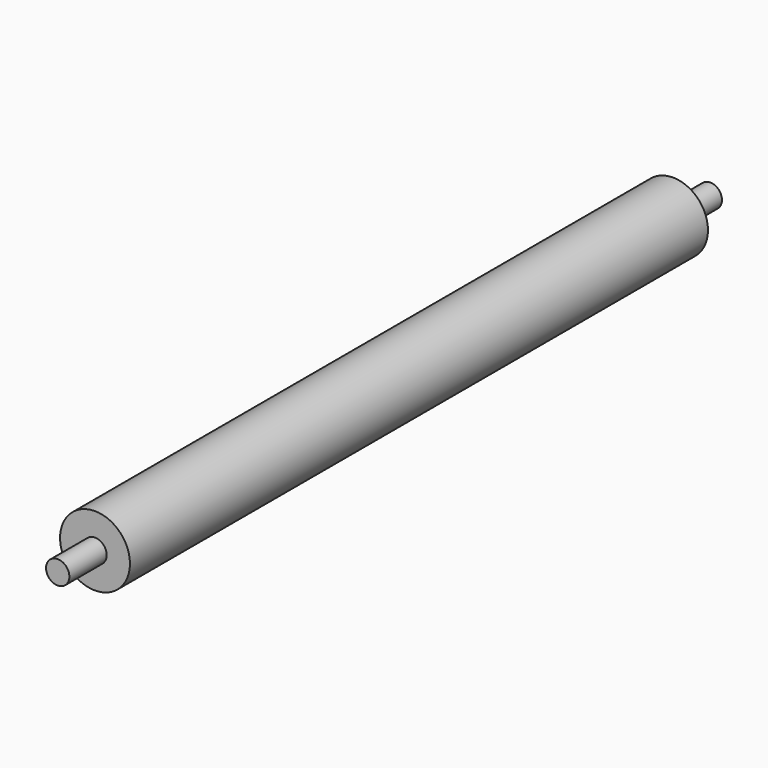
from build123d import *

# Parameters (mm, degrees)
F0_R     = 19.05
F1_DEPTH = 196.85
F2_R     = 6.35
F3_DEPTH = 25.4
F4_R     = 6.35
F5_DEPTH = 25.4


with BuildPart() as f1:
    # F0 (on Front) → F1 (new body, symmetric)
    with BuildSketch(Plane.XZ):
        Circle(F0_R)
    extrude(amount=F1_DEPTH, both=True)

    # F2 (on face) → F3 (join)
    with BuildSketch(Plane(origin=(0, 196.85, 0), x_dir=(-1, 0, 0), z_dir=(0, 1, 0))):
        Circle(F2_R)
    extrude(amount=F3_DEPTH)

    # F4 (on face) → F5 (join)
    with BuildSketch(Plane.XZ.offset(196.85)):
        Circle(F4_R)
    extrude(amount=F5_DEPTH)


solid = f1.part
